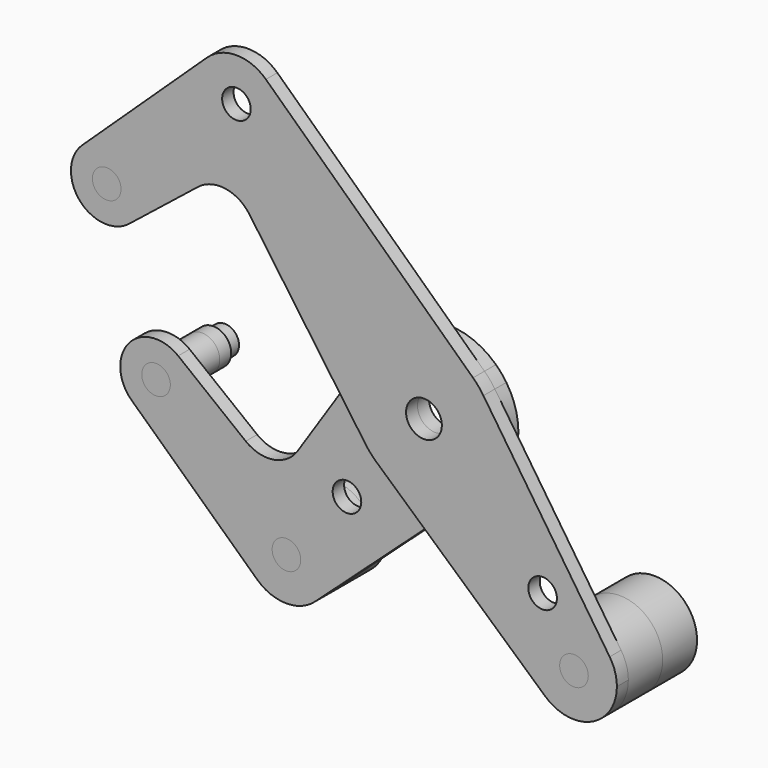
from build123d import *

# Parameters (mm, degrees)
F0_R     = 3.175
F0_R_2   = 3.96875
F2_DEPTH = 3.175
F3_DEPTH = 3.175
F4_R     = 9.525
F6_DEPTH = 12.7
F4_R_2   = 3.9751
F5_R     = 9.525
F5_R_2   = 3.9751


with BuildPart() as f2:
    # F0 (on Front) → F2 (new body)
    with BuildSketch(Plane.XZ):
        with BuildLine():
            ThreePointArc((26.9262440233, -45.4676864135), (37.1682864336, -47.0737686401), (42.8102251661, -38.3762138003))
            ThreePointArc((42.8102251661, -38.3762138003), (42.3999454948, -35.6108027404), (41.2044512386, -33.0836262089))
            ThreePointArc((41.2044512386, -33.0836262089), (27.0442454474, -31.1806737127), (26.9262440233, -45.4676864135))
        make_face()
        with Locations((33.2852251661, -38.3762138003)):
            Circle(F0_R, mode=Mode.SUBTRACT)
        with BuildLine():
            ThreePointArc((-32.0815314576, 47.9702672503), (-32.8608164346, 51.7436071154), (-35.0711574392, 54.8995176744))
            ThreePointArc((-35.0711574392, 54.8995176744), (-41.6065314576, 57.4952672503), (-48.1419054761, 54.8995176744))
            ThreePointArc((-48.1419054761, 54.8995176744), (-45.3798713227, 39.2245522274), (-32.0815314576, 47.9702672503))
        make_face()
        with Locations((-41.6065314576, 47.9702672503)):
            Circle(F0_R, mode=Mode.SUBTRACT)
        with BuildLine():
            ThreePointArc((-62.4511918078, 23.0063483758), (-67.2442419203, 30.2944442282), (-75.8348368232, 28.7807237291))
            ThreePointArc((-75.8348368232, 28.7807237291), (-76.3849752141, 17.8055319436), (-65.4422370763, 16.798571653))
            ThreePointArc((-65.4422370763, 16.798571653), (-63.237943921, 19.5609585706), (-62.4511918078, 23.0063483758))
        make_face()
        with Locations((-70.3886918078, 23.0063483758)):
            Circle(F0_R, mode=Mode.SUBTRACT)
        with BuildLine():
            ThreePointArc((-12.9726166036, -9.1502373442), (-15.8730587934, -0.2482529814), (-13.2524193062, 8.7400805221))
            Line((-13.2524193062, 8.7400805221), (-19.2147683858, -0.3005169703))
            Line((-19.2147683858, -0.3005169703), (-12.9726166036, -9.1502373442))
        make_face()
        with BuildLine():
            Line((-10.5983019047, -11.8191210221), (0.0653932355, -21.3813431455))
            Line((0.0653932355, -21.3813431455), (10.6703987497, -11.7540722953))
            ThreePointArc((10.6703987497, -11.7540722953), (0.0485522706, -15.8749257534), (-10.5983019047, -11.8191210221))
        make_face()
        with BuildLine():
            ThreePointArc((26.9262440233, -45.4676864135), (27.0442454474, -31.1806737127), (41.2044512386, -33.0836262089))
            Line((41.2044512386, -33.0836262089), (13.1987101208, 8.820979319))
            ThreePointArc((13.1987101208, 8.820979319), (15.1912005478, 4.609018433), (15.875, 0))
            ThreePointArc((15.875, 0), (14.5156502636, -6.4274040191), (10.6703987497, -11.7540722953))
            Line((10.6703987497, -11.7540722953), (0.0653932355, -21.3813431455))
            Line((0.0653932355, -21.3813431455), (26.9262440233, -45.4676864135))
        make_face()
        with Locations((26.3222689506, -25.5025770961)):
            Circle(F0_R, mode=Mode.SUBTRACT)
        with BuildLine():
            ThreePointArc((-13.2524193062, 8.7400805221), (-1.834314477, 15.7686687897), (10.8922900307, 11.5487507067))
            Line((10.8922900307, 11.5487507067), (-35.0711574392, 54.8995176744))
            ThreePointArc((-35.0711574392, 54.8995176744), (-32.8608164346, 51.7436071154), (-32.0815314576, 47.9702672503))
            ThreePointArc((-32.0815314576, 47.9702672503), (-45.3798713227, 39.2245522274), (-48.1419054761, 54.8995176744))
            Line((-48.1419054761, 54.8995176744), (-75.8348368232, 28.7807237291))
            ThreePointArc((-75.8348368232, 28.7807237291), (-67.2442419203, 30.2944442282), (-62.4511918078, 23.0063483758))
            ThreePointArc((-62.4511918078, 23.0063483758), (-63.237943921, 19.5609585706), (-65.4422370763, 16.798571653))
            Line((-65.4422370763, 16.798571653), (-50.1509863937, 28.9828821829))
            ThreePointArc((-50.1509863937, 28.9828821829), (-44.0823996147, 30.6328866939), (-38.7182233604, 27.3502241323))
            Line((-38.7182233604, 27.3502241323), (-19.2147683858, -0.3005169703))
            Line((-19.2147683858, -0.3005169703), (-13.2524193062, 8.7400805221))
        make_face()
        with BuildLine():
            ThreePointArc((15.875, 0), (15.1912005478, 4.609018433), (13.1987101208, 8.820979319))
            ThreePointArc((13.1987101208, 8.820979319), (12.1224690662, 10.2499448164), (10.8922900307, 11.5487507067))
            ThreePointArc((10.8922900307, 11.5487507067), (-1.834314477, 15.7686687897), (-13.2524193062, 8.7400805221))
            ThreePointArc((-13.2524193062, 8.7400805221), (-15.8730587934, -0.2482529814), (-12.9726166036, -9.1502373442))
            ThreePointArc((-12.9726166036, -9.1502373442), (-11.8607666217, -10.5516747555), (-10.5983019047, -11.8191210221))
            ThreePointArc((-10.5983019047, -11.8191210221), (0.0485522706, -15.8749257534), (10.6703987497, -11.7540722953))
            ThreePointArc((10.6703987497, -11.7540722953), (14.5156502636, -6.4274040191), (15.875, 0))
        make_face()
        Circle(F0_R_2, mode=Mode.SUBTRACT)
    extrude(amount=F2_DEPTH)


with BuildPart() as f3:
    # F0 (on Front) → F3 (new body)
    with BuildSketch(Plane.XZ):
        with BuildLine():
            ThreePointArc((15.875, 0), (15.1912005478, 4.609018433), (13.1987101208, 8.820979319))
            ThreePointArc((13.1987101208, 8.820979319), (12.1224690662, 10.2499448164), (10.8922900307, 11.5487507067))
            ThreePointArc((10.8922900307, 11.5487507067), (-1.834314477, 15.7686687897), (-13.2524193062, 8.7400805221))
            ThreePointArc((-13.2524193062, 8.7400805221), (-15.8730587934, -0.2482529814), (-12.9726166036, -9.1502373442))
            ThreePointArc((-12.9726166036, -9.1502373442), (-11.8607666217, -10.5516747555), (-10.5983019047, -11.8191210221))
            ThreePointArc((-10.5983019047, -11.8191210221), (0.0485522706, -15.8749257534), (10.6703987497, -11.7540722953))
            ThreePointArc((10.6703987497, -11.7540722953), (14.5156502636, -6.4274040191), (15.875, 0))
        make_face()
        Circle(F0_R_2, mode=Mode.SUBTRACT)
        with BuildLine():
            Line((-10.5983019047, -11.8191210221), (0.0653932355, -21.3813431455))
            Line((0.0653932355, -21.3813431455), (10.6703987497, -11.7540722953))
            ThreePointArc((10.6703987497, -11.7540722953), (0.0485522706, -15.8749257534), (-10.5983019047, -11.8191210221))
        make_face()
        with BuildLine():
            ThreePointArc((-12.9726166036, -9.1502373442), (-15.8730587934, -0.2482529814), (-13.2524193062, 8.7400805221))
            Line((-13.2524193062, 8.7400805221), (-19.2147683858, -0.3005169703))
            Line((-19.2147683858, -0.3005169703), (-12.9726166036, -9.1502373442))
        make_face()
        with BuildLine():
            Line((-26.647623873, -45.6315380732), (0.0653932355, -21.3813431455))
            Line((0.0653932355, -21.3813431455), (-10.5983019047, -11.8191210221))
            ThreePointArc((-10.5983019047, -11.8191210221), (-11.8607666217, -10.5516747555), (-12.9726166036, -9.1502373442))
            Line((-12.9726166036, -9.1502373442), (-19.2147683858, -0.3005169703))
            Line((-19.2147683858, -0.3005169703), (-30.5474012326, -17.4839744853))
            ThreePointArc((-30.5474012326, -17.4839744853), (-35.9047663103, -20.9493627188), (-42.0820013957, -19.3518512525))
            Line((-42.0820013957, -19.3518512525), (-57.0757936348, -7.5537803256))
            ThreePointArc((-57.0757936348, -7.5537803256), (-54.8440071189, -10.3244537385), (-54.0466841448, -13.7916973539))
            ThreePointArc((-54.0466841448, -13.7916973539), (-58.817458973, -21.070142101), (-67.394906617, -19.5992776228))
            Line((-67.394906617, -19.5992776228), (-39.5427300894, -45.5481910186))
            ThreePointArc((-39.5427300894, -45.5481910186), (-36.849933329, -29.8449609995), (-23.5248631228, -38.579094696))
            ThreePointArc((-23.5248631228, -38.579094696), (-24.3404729646, -42.4355371074), (-26.647623873, -45.6315380732))
        make_face()
        with Locations((-19.6233562292, -22.9063374758)):
            Circle(F0_R, mode=Mode.SUBTRACT)
        with BuildLine():
            ThreePointArc((-39.5427300894, -45.5481910186), (-33.1114263313, -48.1038957423), (-26.647623873, -45.6315380732))
            ThreePointArc((-26.647623873, -45.6315380732), (-24.3404729646, -42.4355371074), (-23.5248631228, -38.579094696))
            ThreePointArc((-23.5248631228, -38.579094696), (-36.849933329, -29.8449609995), (-39.5427300894, -45.5481910186))
        make_face()
        with Locations((-33.0498631228, -38.579094696)):
            Circle(F0_R, mode=Mode.SUBTRACT)
        with BuildLine():
            ThreePointArc((-57.0757936348, -7.5537803256), (-68.0121676911, -8.627656241), (-67.394906617, -19.5992776228))
            ThreePointArc((-67.394906617, -19.5992776228), (-58.817458973, -21.070142101), (-54.0466841448, -13.7916973539))
            ThreePointArc((-54.0466841448, -13.7916973539), (-54.8440071189, -10.3244537385), (-57.0757936348, -7.5537803256))
        make_face()
        with Locations((-61.9841841448, -13.7916973539)):
            Circle(F0_R, mode=Mode.SUBTRACT)
    extrude(amount=-F3_DEPTH)


with BuildPart() as f6:
    # F4 (on face) → F6 (new body, through all)
    with BuildSketch(Plane.XZ.offset(3.175)):
        with Locations((33.2852251661, -38.3762138003)):
            Circle(F4_R)
    extrude(amount=-F6_DEPTH)

    # F7: cut F2, F3
    add(f2.part, mode=Mode.SUBTRACT)
    add(f3.part, mode=Mode.SUBTRACT)



with BuildPart() as f6b:
    # F4 (on face) → F6, piece 2 (new body, through all)
    with BuildSketch(Plane.XZ.offset(3.175)):
        with Locations((-70.3886918078, 23.0063483758)):
            Circle(F4_R_2)
    extrude(amount=-F6_DEPTH)

    # F7: cut F2, F3
    add(f2.part, mode=Mode.SUBTRACT)
    add(f3.part, mode=Mode.SUBTRACT)


with BuildPart() as f6c:
    # F5 (on face) → F6, piece 3 (new body, through all)
    with BuildSketch(Plane.XZ):
        with Locations((-33.0498631228, -38.579094696)):
            Circle(F5_R)
    extrude(amount=-F6_DEPTH)

    # F7: cut F2, F3
    add(f2.part, mode=Mode.SUBTRACT)
    add(f3.part, mode=Mode.SUBTRACT)


with BuildPart() as f6d:
    # F5 (on face) → F6, piece 4 (new body, through all)
    with BuildSketch(Plane.XZ):
        with Locations((-61.9841841448, -13.7916973539)):
            Circle(F5_R_2)
    extrude(amount=-F6_DEPTH)

    # F7: cut F2, F3
    add(f2.part, mode=Mode.SUBTRACT)
    add(f3.part, mode=Mode.SUBTRACT)


with BuildPart() as f6_1:
    add(f6.part)

    add(f6b.part)  # F8 merges F6b

    add(f6c.part)  # F8 merges F6c

    add(f6d.part)  # F8 merges F6d
    # F8: F6, F6b, F6c, F6d across plane
    add(f6.part.mirror(Plane.XZ.offset(-9.525)))
    add(f6b.part.mirror(Plane.XZ.offset(-9.525)))
    add(f6c.part.mirror(Plane.XZ.offset(-9.525)))
    add(f6d.part.mirror(Plane.XZ.offset(-9.525)))


solid = Compound([f2.part, f3.part, f6_1.part])
